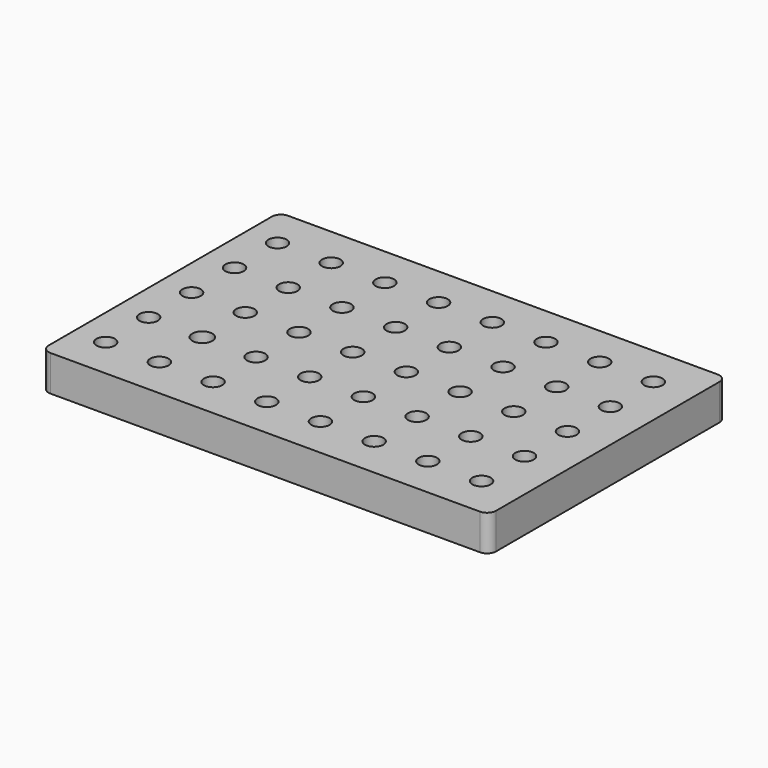
from build123d import *

# Parameters (mm, degrees)
F0_R     = 10.25
F0_R_2   = 11.173899
F1_DEPTH = 40


with BuildPart() as f1:
    # F0 (on Top) → F1 (new body)
    with BuildSketch(Plane.XY):
        with BuildLine():
            Line((-240, -166), (240, -166))
            ThreePointArc((240, -166), (247.071068, -163.071068), (250, -156))
            Line((250, -156), (250, 156))
            ThreePointArc((250, 156), (247.071068, 163.071068), (240, 166))
            Line((240, 166), (-240, 166))
            ThreePointArc((-240, 166), (-247.071068, 163.071068), (-250, 156))
            Line((-250, 156), (-250, -156))
            ThreePointArc((-250, -156), (-247.071068, -163.071068), (-240, -166))
        make_face()
        with Locations((-215, -120)):
            Circle(F0_R, mode=Mode.SUBTRACT)
        with Locations((-155, -120)):
            Circle(F0_R, mode=Mode.SUBTRACT)
        with Locations((-95, -120)):
            Circle(F0_R, mode=Mode.SUBTRACT)
        with Locations((-35, -120)):
            Circle(F0_R, mode=Mode.SUBTRACT)
        with Locations((-215, -60)):
            Circle(F0_R, mode=Mode.SUBTRACT)
        with Locations((-155, -60)):
            Circle(F0_R_2, mode=Mode.SUBTRACT)
        with Locations((-95, -60)):
            Circle(F0_R, mode=Mode.SUBTRACT)
        with Locations((-35, -60)):
            Circle(F0_R, mode=Mode.SUBTRACT)
        with Locations((25, -120)):
            Circle(F0_R, mode=Mode.SUBTRACT)
        with Locations((85, -120)):
            Circle(F0_R, mode=Mode.SUBTRACT)
        with Locations((145, -120)):
            Circle(F0_R, mode=Mode.SUBTRACT)
        with Locations((205, -120)):
            Circle(F0_R, mode=Mode.SUBTRACT)
        with Locations((25, -60)):
            Circle(F0_R, mode=Mode.SUBTRACT)
        with Locations((85, -60)):
            Circle(F0_R, mode=Mode.SUBTRACT)
        with Locations((145, -60)):
            Circle(F0_R, mode=Mode.SUBTRACT)
        with Locations((205, -60)):
            Circle(F0_R, mode=Mode.SUBTRACT)
        with Locations((-215, 0)):
            Circle(F0_R, mode=Mode.SUBTRACT)
        with Locations((-155, 0)):
            Circle(F0_R, mode=Mode.SUBTRACT)
        with Locations((-215, 60)):
            Circle(F0_R, mode=Mode.SUBTRACT)
        with Locations((-155, 60)):
            Circle(F0_R, mode=Mode.SUBTRACT)
        with Locations((-95, 0)):
            Circle(F0_R, mode=Mode.SUBTRACT)
        with Locations((-35, 0)):
            Circle(F0_R, mode=Mode.SUBTRACT)
        with Locations((-95, 60)):
            Circle(F0_R, mode=Mode.SUBTRACT)
        with Locations((-35, 60)):
            Circle(F0_R, mode=Mode.SUBTRACT)
        with Locations((-215, 120)):
            Circle(F0_R, mode=Mode.SUBTRACT)
        with Locations((-155, 120)):
            Circle(F0_R, mode=Mode.SUBTRACT)
        with Locations((-95, 120)):
            Circle(F0_R, mode=Mode.SUBTRACT)
        with Locations((-35, 120)):
            Circle(F0_R, mode=Mode.SUBTRACT)
        with Locations((25, 0)):
            Circle(F0_R, mode=Mode.SUBTRACT)
        with Locations((85, 0)):
            Circle(F0_R, mode=Mode.SUBTRACT)
        with Locations((25, 60)):
            Circle(F0_R, mode=Mode.SUBTRACT)
        with Locations((85, 60)):
            Circle(F0_R, mode=Mode.SUBTRACT)
        with Locations((145, 0)):
            Circle(F0_R, mode=Mode.SUBTRACT)
        with Locations((205, 0)):
            Circle(F0_R, mode=Mode.SUBTRACT)
        with Locations((145, 60)):
            Circle(F0_R, mode=Mode.SUBTRACT)
        with Locations((205, 60)):
            Circle(F0_R, mode=Mode.SUBTRACT)
        with Locations((25, 120)):
            Circle(F0_R, mode=Mode.SUBTRACT)
        with Locations((85, 120)):
            Circle(F0_R, mode=Mode.SUBTRACT)
        with Locations((145, 120)):
            Circle(F0_R, mode=Mode.SUBTRACT)
        with Locations((205, 120)):
            Circle(F0_R, mode=Mode.SUBTRACT)
    extrude(amount=F1_DEPTH)


solid = f1.part
